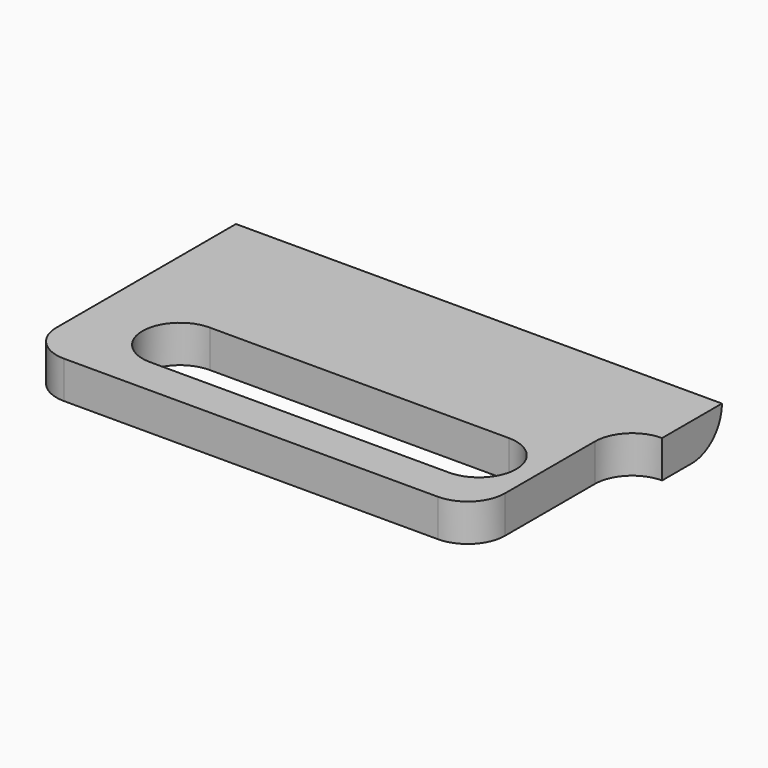
from build123d import *

# Parameters (mm, degrees)
EXTRUDE072_DEPTH = 15
EXTRUDE068_DEPTH = 1
EXTRUDE067_DEPTH = 1


with BuildPart() as extrude072:
    # Sketch269 → Extrude072 (new body)
    with BuildSketch(Plane.YZ):
        with BuildLine():
            ThreePointArc((6, 0), (6.707107, 0.292893), (7, 1))
            Line((7, 1), (7, 0))
            Line((6, 0), (7, 0))
        make_face()
    extrude(amount=EXTRUDE072_DEPTH)


with BuildPart() as extrude068:
    # Sketch265 → Extrude068 (new body)
    with BuildSketch(Plane.XY):
        with BuildLine():
            ThreePointArc((10.5, 1), (11.5, 2), (10.5, 3))
            Line((10.5, 3), (2.5, 3))
            ThreePointArc((2.5, 3), (1.5, 2), (2.5, 1))
            Line((2.5, 1), (10.5, 1))
        make_face()
    extrude(amount=EXTRUDE068_DEPTH)


with BuildPart() as cut043:
    # Sketch264 → Extrude067 (new body)
    with BuildSketch(Plane.XY):
        with BuildLine():
            ThreePointArc((0, 1), (0.292893, 0.292893), (1, 0))
            Line((1, 0), (11, 0))
            ThreePointArc((11, 0), (11.707107, 0.292893), (12, 1))
            Line((12, 4), (12, 1))
            ThreePointArc((13, 5), (12.292893, 4.707107), (12, 4))
            Line((13, 7), (13, 5))
            Line((0, 7), (13, 7))
            Line((0, 1), (0, 7))
        make_face()
    extrude(amount=EXTRUDE067_DEPTH)

    # Cut040: cut Extrude068
    add(extrude068.part, mode=Mode.SUBTRACT)

    # Cut043: cut Extrude072
    add(extrude072.part, mode=Mode.SUBTRACT)


solid = cut043.part
